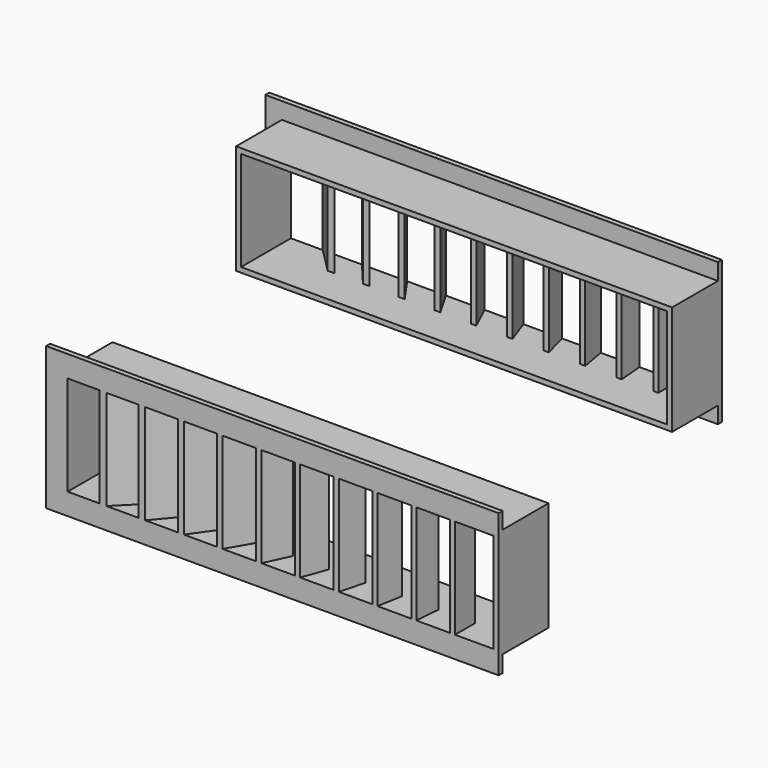
from build123d import *

# Parameters (mm, degrees)
F0_W     = 175
F0_H     = 44
F0_W_2   = 171
F0_H_2   = 40
F1_DEPTH = 25
F2_W     = 2
F2_H     = 10
F3_DEPTH = 40
F4_W     = 2
F4_H     = 6.6499368876
F7_ANGLE = 180


with BuildPart() as f1:
    # F0 (on Front) → F1 (new body)
    with BuildSketch(Plane.XZ):
        Rectangle(F0_W, F0_H)
        Rectangle(F0_W_2, F0_H_2, mode=Mode.SUBTRACT)
    extrude(amount=-F1_DEPTH)

    # F2 (on face) → F3 (join, through all)
    with BuildSketch(Plane.XY.offset(-20)):
        Polygon((7.8, 0), (11.4397023427, 10), (9.3113467977, 10), (5.9206147584, 0.6840402867), (5.671644455, 0), align=None)
        Polygon((23.34, 0), (26.0194919243, 10), (23.9489395635, 10), (21.4081483474, 0.5176380902), (21.2694476392, 0), align=None)
        Polygon((38.88, 0), (40.6432698071, 10), (38.6124165833, 10), (36.910384494, 0.3472963553), (36.8491467762, 0), align=None)
        Polygon((54.42, 0), (55.2948866353, 10), (53.2872469602, 10), (52.4276106038, 0.1743114855), (52.4123603249, 0), align=None)
        Polygon((-7.74, 0), (-3.0769234185, 10), (-5.2836792564, 10), (-9.5526155741, 0.8452365235), (-9.9467558379, 0), align=None)
        Polygon((-17.5064973081, 10), (-19.8158983849, 10), (-25.0120508076, 1), (-25.5894010768, 0), (-23.28, 0), align=None)
        Polygon((-31.8179246179, 10), (-34.2594737954, 10), (-40.4583040886, 1.1471528727), (-41.2615491775, 0), (-38.82, 0), align=None)
        Polygon((-45.9690036882, 10), (-48.5798182669, 10), (-55.8920888862, 1.2855752194), (-56.9708145787, 0), (-54.36, 0), align=None)
        Polygon((-59.9, 10), (-62.7284271247, 10), (-71.3142135624, 1.4142135624), (-72.7284271247, 0), (-69.9, 0), align=None)
        with Locations((68.96, 5)):
            Rectangle(F2_W, F2_H)
    extrude(amount=F3_DEPTH)

    # F5: sweep along a path in F5_path
    with BuildLine(Plane(origin=(-87.5, 0, 22), x_dir=(0, 0, 1), z_dir=(0, -1, 0))) as f5_path:
        Line((0, -175), (0, 0))
        Line((0, 0), (-44, 0))
        Line((-44, 0), (-44, -175))
    # F4 (on face) → F5 (sweep)
    with BuildSketch(Plane.YZ.offset(87.5)):
        with Locations((1, 25.3249684438)):
            Rectangle(F4_W, F4_H)
    sweep(path=f5_path.line, transition=Transition.RIGHT)


with BuildPart() as f6_1:
    # F6: copy of F1
    add(f1.part.moved(Location((0, 62, 0))))


with BuildPart() as f6_1_1:
    # F7: moved
    add(f6_1.part.rotate(Axis((0, 87, 22), (1, 0, 0)), F7_ANGLE))


solid = Compound([f1.part, f6_1_1.part])
